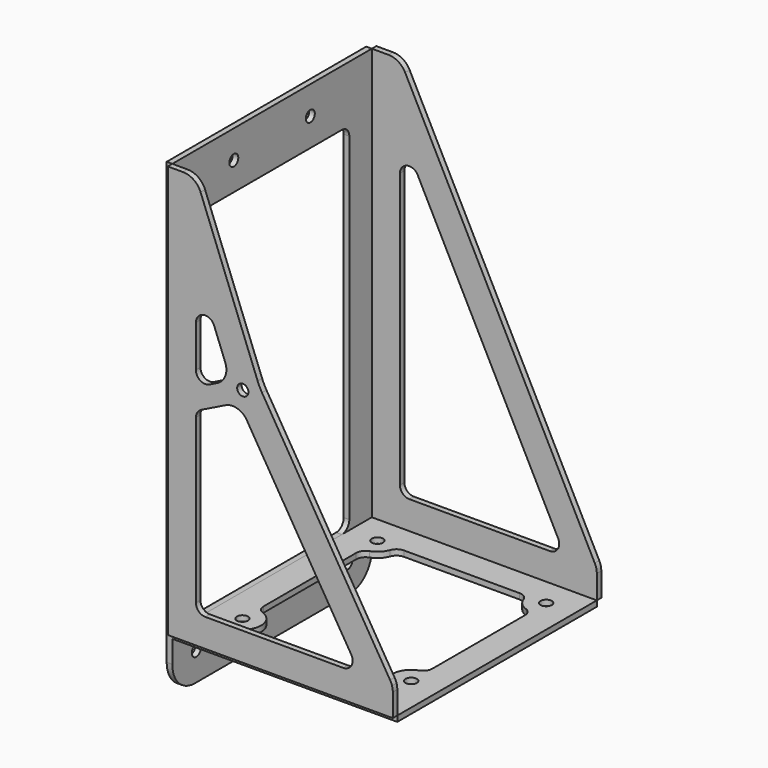
from build123d import *

# Parameters (mm, degrees)
F0_W     = 120
F0_H     = 133
F0_R     = 3
F1_DEPTH = 3
F2_R     = 3
F3_DEPTH = 3
F5_DEPTH = 3
F6_R     = 3
F7_DEPTH = 3


with BuildPart() as f1:
    # F0 (on Top) → F1 (new body)
    with BuildSketch(Plane.XY):
        with Locations((45, 38.5)):
            Rectangle(F0_W, F0_H)
        Circle(F0_R, mode=Mode.SUBTRACT)
        with Locations((90, 0)):
            Circle(F0_R, mode=Mode.SUBTRACT)
        with BuildLine():
            ThreePointArc((0, 75.857864), (0.917517, 78.744616), (3.333333, 80.57191))
            ThreePointArc((3.333333, 80.57191), (7.071068, 82.928932), (9.42809, 86.666667))
            ThreePointArc((9.42809, 86.666667), (11.255384, 89.082483), (14.142136, 90))
            Line((14.142136, 90), (75.857864, 90))
            ThreePointArc((75.857864, 90), (78.744616, 89.082483), (80.57191, 86.666667))
            ThreePointArc((80.57191, 86.666667), (82.928932, 82.928932), (86.666667, 80.57191))
            ThreePointArc((86.666667, 80.57191), (89.082483, 78.744616), (90, 75.857864))
            Line((90, 75.857864), (90, 14.142136))
            ThreePointArc((90, 14.142136), (89.082483, 11.255384), (86.666667, 9.42809))
            ThreePointArc((86.666667, 9.42809), (80.553308, 3.280245), (81.540948, -5.333333))
            ThreePointArc((81.540948, -5.333333), (81.689398, -10.415229), (77.311422, -13))
            Line((77.311422, -13), (12.688578, -13))
            ThreePointArc((12.688578, -13), (8.310602, -10.415229), (8.459052, -5.333333))
            ThreePointArc((8.459052, -5.333333), (9.446692, 3.280245), (3.333333, 9.42809))
            ThreePointArc((3.333333, 9.42809), (0.917517, 11.255384), (0, 14.142136))
            Line((0, 14.142136), (0, 75.857864))
        make_face(mode=Mode.SUBTRACT)
        with Locations((0, 90)):
            Circle(F0_R, mode=Mode.SUBTRACT)
        with Locations((90, 90)):
            Circle(F0_R, mode=Mode.SUBTRACT)
    extrude(amount=F1_DEPTH)


with BuildPart() as f3:
    # F2 (on face) → F3 (new body)
    with BuildSketch(Plane(origin=(-15, 0, 0), x_dir=(0, -1, 0), z_dir=(-1, 0, 0))):
        with BuildLine():
            Line((28, 223), (-105, 223))
            Line((-105, 223), (-105, 3))
            Line((-105, 3), (-105, -12))
            ThreePointArc((-105, -12), (-100.606602, -22.606602), (-90, -27))
            Line((-90, -27), (13, -27))
            ThreePointArc((13, -27), (23.606602, -22.606602), (28, -12))
            Line((28, -12), (28, 3))
            Line((28, 3), (28, 223))
        make_face()
        with Locations((-89, -12)):
            Circle(F2_R, mode=Mode.SUBTRACT)
        with Locations((12, -12)):
            Circle(F2_R, mode=Mode.SUBTRACT)
        with BuildLine():
            Line((8, 3), (-85, 3))
            ThreePointArc((-85, 3), (-88.535534, 4.464466), (-90, 8))
            Line((-90, 8), (-90, 188))
            ThreePointArc((-90, 188), (-88.535534, 191.535534), (-85, 193))
            Line((-85, 193), (8, 193))
            ThreePointArc((8, 193), (11.535534, 191.535534), (13, 188))
            Line((13, 188), (13, 8))
            ThreePointArc((13, 8), (11.535534, 4.464466), (8, 3))
        make_face(mode=Mode.SUBTRACT)
        with Locations((-64, 208)):
            Circle(F2_R, mode=Mode.SUBTRACT)
        with Locations((-13, 208)):
            Circle(F2_R, mode=Mode.SUBTRACT)
    extrude(amount=F3_DEPTH)


with BuildPart() as f5:
    # F4 (on face) → F5 (new body)
    with BuildSketch(Plane(origin=(0, 105, 0), x_dir=(-1, 0, 0), z_dir=(0, 1, 0))):
        with BuildLine():
            Line((-105, 3), (15, 3))
            Line((15, 3), (15, 223))
            Line((15, 223), (6.113456, 223))
            ThreePointArc((6.113456, 223), (0.897499, 221.531928), (-2.786977, 217.558759))
            Line((-2.786977, 217.558759), (-103.900434, 20.146772))
            ThreePointArc((-103.900434, 20.146772), (-104.721223, 17.932759), (-105, 15.588014))
            Line((-105, 15.588014), (-105, 3))
        make_face()
        with BuildLine():
            Line((-5, 18), (-79.968209, 18))
            ThreePointArc((-79.968209, 18), (-84.234173, 20.392022), (-84.418426, 25.279379))
            Line((-84.418426, 25.279379), (-9.450217, 171.645883))
            ThreePointArc((-9.450217, 171.645883), (-3.827627, 174.227115), (0, 169.366504))
            Line((0, 169.366504), (0, 23))
            ThreePointArc((0, 23), (-1.464466, 19.464466), (-5, 18))
        make_face(mode=Mode.SUBTRACT)
    extrude(amount=F5_DEPTH)


with BuildPart() as f7:
    # F6 (on face) → F7 (new body)
    with BuildSketch(Plane.XZ.offset(28)):
        with BuildLine():
            Line((-15, 223), (-15, 3))
            Line((-15, 3), (105, 3))
            Line((105, 3), (105, 15.206102))
            ThreePointArc((105, 15.206102), (104.899944, 16.61717), (104.601778, 18))
            ThreePointArc((104.601778, 18), (104.155102, 19.22905), (103.551866, 20.389304))
            Line((103.551866, 20.389304), (35.244011, 133.091767))
            ThreePointArc((35.244011, 133.091767), (33.976028, 135.408053), (32.916642, 137.826867))
            Line((32.916642, 137.826867), (2.471523, 216.604835))
            ThreePointArc((2.471523, 216.604835), (-1.201416, 221.247677), (-6.856133, 223))
            Line((-6.856133, 223), (-15, 223))
        make_face()
        with BuildLine():
            ThreePointArc((0, 110.029648), (0.755836, 112.672955), (2.794828, 114.517099))
            Line((2.794828, 114.517099), (15.762277, 120.889413))
            ThreePointArc((15.762277, 120.889413), (22.082222, 121.434816), (27.111922, 117.56942))
            Line((27.111922, 117.56942), (82.858774, 25.591601))
            ThreePointArc((82.858774, 25.591601), (82.939331, 20.546228), (78.582841, 18))
            Line((78.582841, 18), (5, 18))
            ThreePointArc((5, 18), (1.464466, 19.464466), (0, 23))
            Line((0, 23), (0, 110.029648))
        make_face(mode=Mode.SUBTRACT)
        with BuildLine():
            Line((11.352975, 129.864827), (7.205172, 127.826561))
            ThreePointArc((7.205172, 127.826561), (2.356693, 128.069849), (0, 132.314013))
            Line((0, 132.314013), (0, 154.581261))
            ThreePointArc((0, 154.581261), (4.08325, 159.4965), (9.663828, 156.383679))
            Line((9.663828, 156.383679), (15.657094, 140.875861))
            ThreePointArc((15.657094, 140.875861), (15.644907, 134.533886), (11.352975, 129.864827))
        make_face(mode=Mode.SUBTRACT)
        with Locations((25, 131)):
            Circle(F6_R, mode=Mode.SUBTRACT)
    extrude(amount=F7_DEPTH)


solid = Compound([f1.part, f3.part, f5.part, f7.part])
